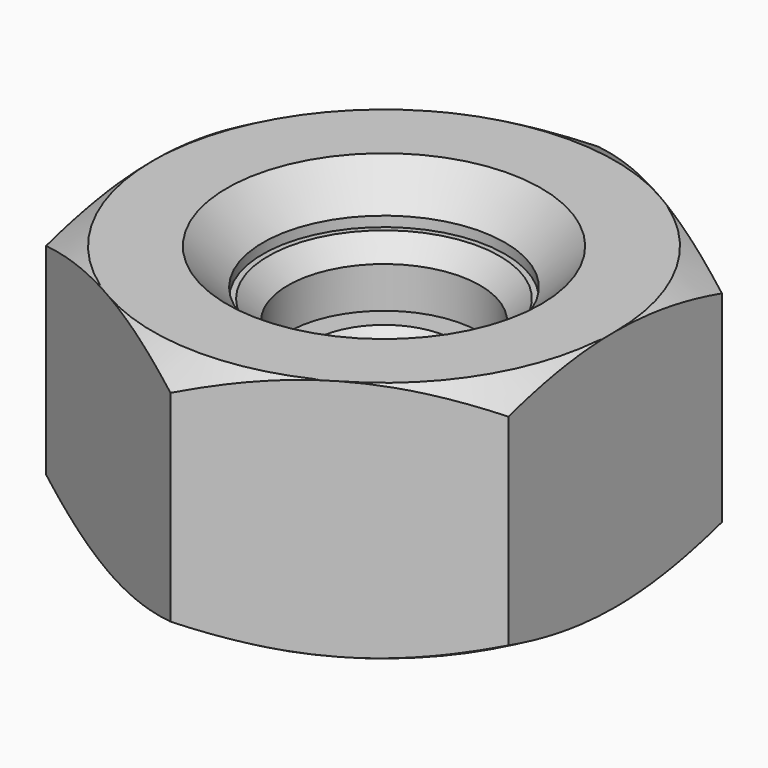
from build123d import *

# Parameters (mm, degrees)
F0_R      = 4.188
F1_DEPTH  = 8.4
F4_SIZE   = 1.25
F5_R      = 1.23
F6_DEPTH  = 2.4
F9_SIZE   = 0.3
F10_R     = 2.05
F11_DEPTH = 4.7
F14_SIZE  = 0.45
F15_R     = 3.325
F16_DEPTH = 6.8
F19_SIZE  = 0.675
F20_R     = 0.85
F21_DEPTH = 1.6
F24_SIZE  = 0.3


with BuildPart() as f1:
    # F0 (on Top) → F1 (new body)
    with BuildSketch(Plane.XY):
        Polygon((8, -4.6188021535), (8, 4.6188021535), (0, 9.237604307), (-8, 4.6188021535), (-8, -4.6188021535), (0, -9.237604307), align=None)
        Circle(F0_R, mode=Mode.SUBTRACT)
    extrude(amount=F1_DEPTH)

    # F2 (on Front) → F3 (revolve, cut)
    with BuildSketch(Plane.XZ):
        Polygon((15.2746133918, 0), (15.2746133918, 4.2), (8, 0), align=None)
        Polygon((15.2746133918, 8.4), (8, 8.4), (15.2746133918, 4.2), align=None)
    revolve(axis=Axis((0, 0, 4.2), (0, 0, 1)), mode=Mode.SUBTRACT)

    # F4
    f4_edges = [f1.edges().sort_by_distance(p)[0] for p in [
        (4.188, 0, 4.2),
        (-4.188, 0, 0),
        (-4.188, 0, 8.4),
    ]]
    chamfer(f4_edges, length=F4_SIZE)


with BuildPart() as f6:
    # F5 (on Top) → F6 (new body)
    with BuildSketch(Plane.XY):
        Polygon((2.75, -1.5877132403), (2.75, 1.5877132403), (0, 3.1754264805), (-2.75, 1.5877132403), (-2.75, -1.5877132403), (0, -3.1754264805), align=None)
        Circle(F5_R, mode=Mode.SUBTRACT)
    extrude(amount=F6_DEPTH)

    # F7 (on Front) → F8 (revolve, cut)
    with BuildSketch(Plane.XZ):
        Polygon((4.8284609691, 0), (4.8284609691, 1.2), (2.75, 0), align=None)
        Polygon((4.8284609691, 2.4), (2.75, 2.4), (4.8284609691, 1.2), align=None)
    revolve(axis=Axis((0, 0, 1.1765488889), (0, 0, 1)), mode=Mode.SUBTRACT)

    # F9
    f9_edges = [f6.edges().sort_by_distance(p)[0] for p in [
        (1.23, 0, 1.2),
        (-1.23, 0, 0),
        (-1.23, 0, 2.4),
    ]]
    chamfer(f9_edges, length=F9_SIZE)


with BuildPart() as f11:
    # F10 (on Top) → F11 (new body)
    with BuildSketch(Plane.XY):
        Polygon((4, -2.3094010768), (4, 2.3094010768), (0, 4.6188021535), (-4, 2.3094010768), (-4, -2.3094010768), (0, -4.6188021535), align=None)
        Circle(F10_R, mode=Mode.SUBTRACT)
    extrude(amount=F11_DEPTH)

    # F12 (on Front) → F13 (revolve, cut)
    with BuildSketch(Plane.XZ):
        Polygon((-8.0703193978, 2.35), (-4, 4.7), (-8.0703193978, 4.7), align=None)
        Polygon((-4, 0), (-8.0703193978, 2.35), (-8.0703193978, 0), align=None)
    revolve(axis=Axis((0, 0, 4.6879765578), (0, 0, 1)), mode=Mode.SUBTRACT)

    # F14
    f14_edges = [f11.edges().sort_by_distance(p)[0] for p in [
        (2.05, 0, 2.35),
        (-2.05, 0, 0),
        (-2.05, 0, 4.7),
    ]]
    chamfer(f14_edges, length=F14_SIZE)


with BuildPart() as f16:
    # F15 (on Top) → F16 (new body)
    with BuildSketch(Plane.XY):
        Polygon((6.5, -3.7527767497), (6.5, 3.7527767497), (0, 7.5055534995), (-6.5, 3.7527767497), (-6.5, -3.7527767497), (0, -7.5055534995), align=None)
        Circle(F15_R, mode=Mode.SUBTRACT)
    extrude(amount=F16_DEPTH)

    # F17 (on Front) → F18 (revolve, cut)
    with BuildSketch(Plane.XZ):
        Polygon((12.3889727457, 0), (12.3889727457, 3.4), (6.5, 0), align=None)
        Polygon((12.3889727457, 6.8), (6.5, 6.8), (12.3889727457, 3.4), align=None)
    revolve(axis=Axis((0, 0, 6.4357738011), (0, 0, 1)), mode=Mode.SUBTRACT)

    # F19
    f19_edges = [f16.edges().sort_by_distance(p)[0] for p in [
        (3.325, 0, 3.4),
        (-3.325, 0, 0),
        (-3.325, 0, 6.8),
    ]]
    chamfer(f19_edges, length=F19_SIZE)


with BuildPart() as f21:
    # F20 (on Top) → F21 (new body)
    with BuildSketch(Plane.XY):
        Polygon((2, -1.1547005384), (2, 1.1547005384), (0, 2.3094010768), (-2, 1.1547005384), (-2, -1.1547005384), (0, -2.3094010768), align=None)
        Circle(F20_R, mode=Mode.SUBTRACT)
    extrude(amount=F21_DEPTH)

    # F22 (on Front) → F23 (revolve, cut)
    with BuildSketch(Plane.XZ):
        Polygon((3.3856406461, 1.6), (2, 1.6), (3.3856406461, 0.8), align=None)
        Polygon((3.3856406461, 0), (3.3856406461, 0.8), (2, 0), align=None)
    revolve(axis=Axis((0, 0, 0.8007095894), (0, 0, 1)), mode=Mode.SUBTRACT)

    # F24
    f24_edges = [f21.edges().sort_by_distance(p)[0] for p in [
        (-0.85, 0, 1.6),
        (-0.85, 0, 0),
    ]]
    chamfer(f24_edges, length=F24_SIZE)


solid = Compound([f1.part, f6.part, f11.part, f16.part, f21.part])
